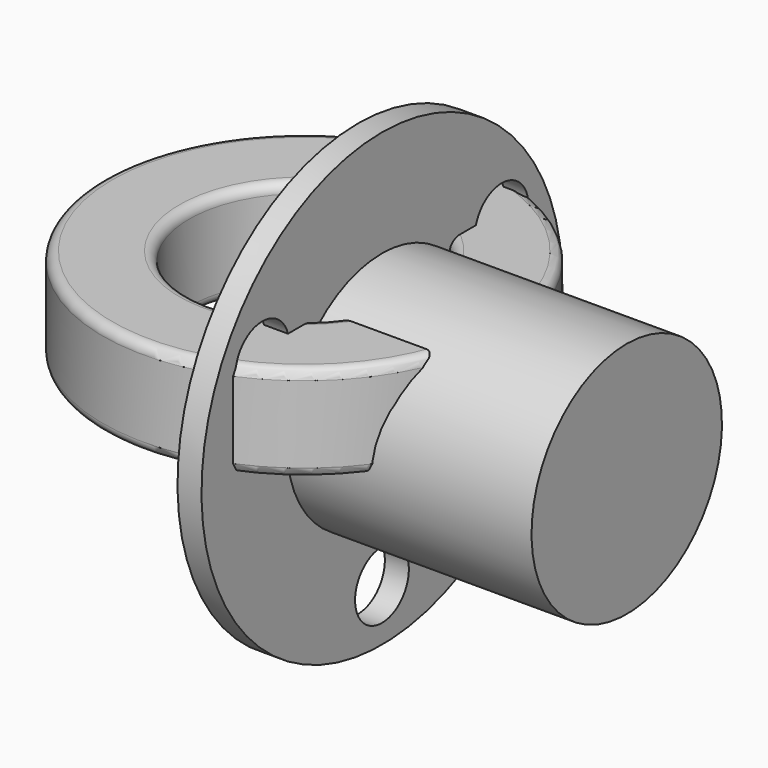
from build123d import *

# Parameters (mm, degrees)
F2_R     = 1.75
F3_DEPTH = 14.001
F4_W     = 4.5
F4_H     = 5
F6_R     = 0.5


with BuildPart() as f1:
    # F0 (on Front) → F1 (revolve)
    with BuildSketch(Plane.XZ):
        Polygon((2.8, 11.75), (2.8, 2), (0, 2), (0, 0), (16.8, 0), (16.8, 6.2), (4.05, 6.2), (4.05, 11.75), align=None)
    revolve(axis=Axis((-2.24936, 0, 0), (-1, 0, 0)))

    # F2 (on face) → F3 (cut, through all)
    with BuildSketch(Plane(origin=(2.8, 0, 0), x_dir=(0, -1, 0), z_dir=(-1, 0, 0))):
        with Locations((-7.794229, 4.5)):
            Circle(F2_R)
        with Locations((7.794229, 4.5)):
            Circle(F2_R)
        with Locations((0, -9)):
            Circle(F2_R)
    extrude(amount=-F3_DEPTH, mode=Mode.SUBTRACT)


with BuildPart() as f5:
    # F4 (on Front) → F5 (revolve)
    with BuildSketch(Plane.XZ):
        with Locations((8.25, 2.5)):
            Rectangle(F4_W, F4_H)
    revolve(axis=Axis((0, 0, 0.355656), (0, 0, 1)))

    # F6
    f6_edges = [f5.edges().sort_by_distance(p)[0] for p in [
        (-10.5, 0, 5),
        (-6, 0, 5),
        (-6, 0, 0),
        (-10.5, 0, 0),
    ]]
    fillet(f6_edges, radius=F6_R)


solid = Compound([f1.part, f5.part])
